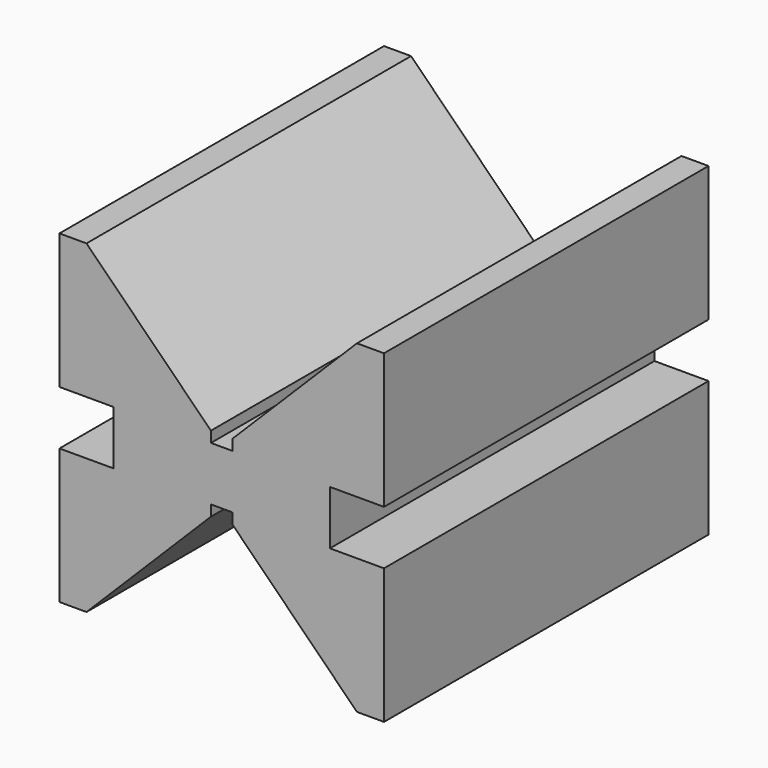
from build123d import *

# Parameters (mm, degrees)
F1_DEPTH = 75


with BuildPart() as f1:
    # F0 (on Front) → F1 (new body)
    with BuildSketch(Plane.XZ):
        Polygon((-30, 0), (-25, 0), (-2, 23), (-2, 25), (0, 25), (0, 35), (-2, 35), (-2, 37), (-25, 60), (-30, 60), (-30, 35), (-20, 35), (-20, 25), (-30, 25), align=None)
    extrude(amount=F1_DEPTH)

    # F2: F1 across face


with BuildPart() as f1_1:
    add(f1.part)
    add(f1.part.mirror(Plane(origin=(0, -37.5, 30), x_dir=(0, 1, 0), z_dir=(1, 0, 0))))


solid = f1_1.part
